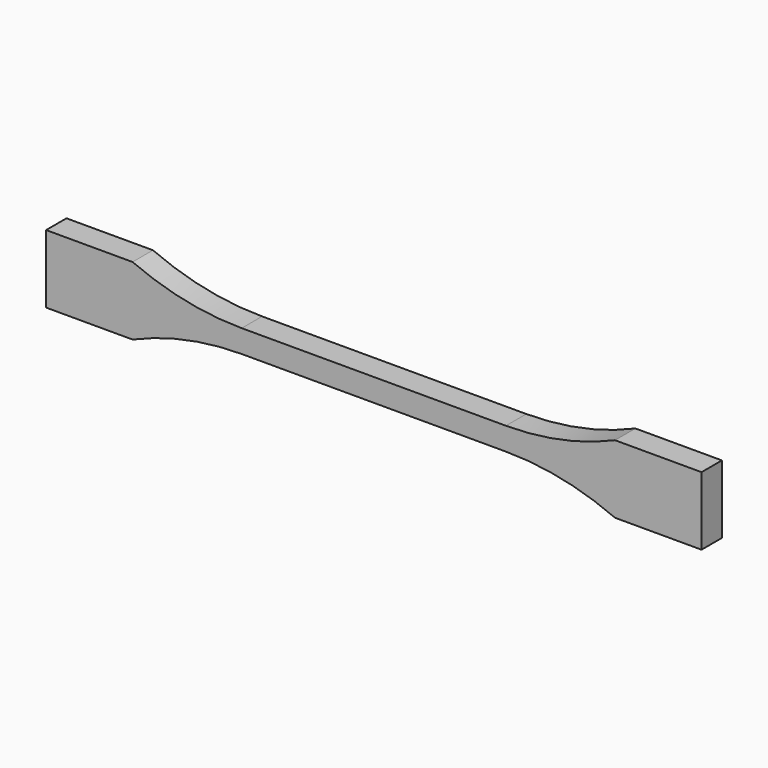
from build123d import *

# Parameters (mm, degrees)
F1_DEPTH = 7.112


with BuildPart() as f1:
    # F0 (on Front) → F1 (new body)
    with BuildSketch(Plane.XZ):
        with BuildLine():
            Line((36.85647, 3.175), (0, 3.175))
            Line((0, 3.175), (-36.85647, 3.175))
            ThreePointArc((-36.85647, 3.175), (-52.41073, 4.77939), (-67.31, 9.525))
            Line((-67.31, 9.525), (-91.44, 9.525))
            Line((-91.44, 9.525), (-91.44, 0))
            Line((-91.44, 0), (-91.44, -9.525))
            Line((-91.44, -9.525), (-67.31, -9.525))
            ThreePointArc((-67.31, -9.525), (-52.41073, -4.77939), (-36.85647, -3.175))
            Line((-36.85647, -3.175), (0, -3.175))
            Line((0, -3.175), (36.85647, -3.175))
            ThreePointArc((36.85647, -3.175), (52.41073, -4.77939), (67.31, -9.525))
            Line((67.31, -9.525), (91.44, -9.525))
            Line((91.44, -9.525), (91.44, 0))
            Line((91.44, 0), (91.44, 9.525))
            Line((91.44, 9.525), (67.31, 9.525))
            ThreePointArc((67.31, 9.525), (52.41073, 4.77939), (36.85647, 3.175))
        make_face()
    extrude(amount=F1_DEPTH)


solid = f1.part
